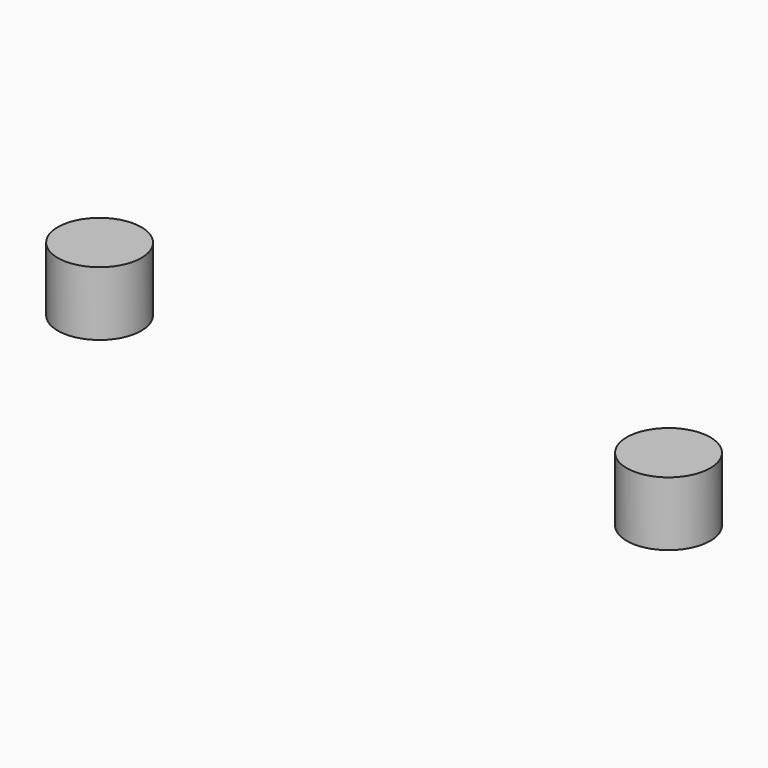
from build123d import *

# Parameters (mm, degrees)
F0_R     = 4.140305
F1_R     = 4.140302
F2_DEPTH = 6.35


with BuildPart() as f2:
    # F0 (on Top) + F1 (on Top) → F2 (new body)
    with BuildSketch(Plane.XY):
        with Locations((-33.754848, 0)):
            Circle(F0_R)
    with BuildSketch(Plane.XY):
        with Locations((22.621344, 0)):
            Circle(F1_R)
    extrude(amount=F2_DEPTH)


solid = f2.part
